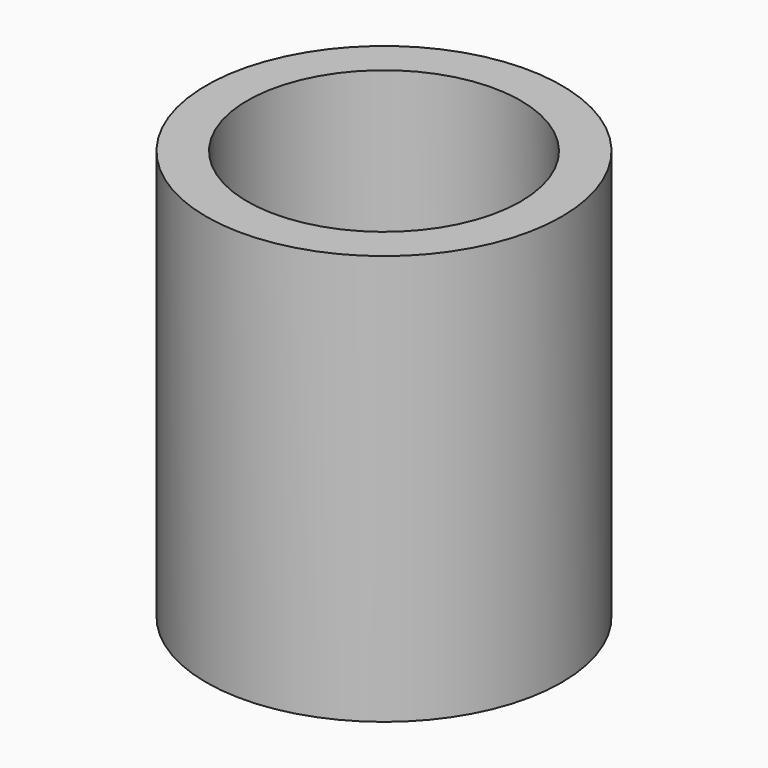
from build123d import *

# Parameters (mm, degrees)
SKETCH_R     = 13
PAD_DEPTH    = 30
SKETCH001_R  = 10
POCKET_DEPTH = 30.001


with BuildPart() as part:
    # Sketch → Pad (new body)
    with BuildSketch(Plane.XY):
        Circle(SKETCH_R)
    extrude(amount=PAD_DEPTH)

    # Sketch001 → Pocket (cut, through all)
    with BuildSketch(Plane.XY):
        Circle(SKETCH001_R)
    extrude(amount=POCKET_DEPTH, mode=Mode.SUBTRACT)


solid = part.part
